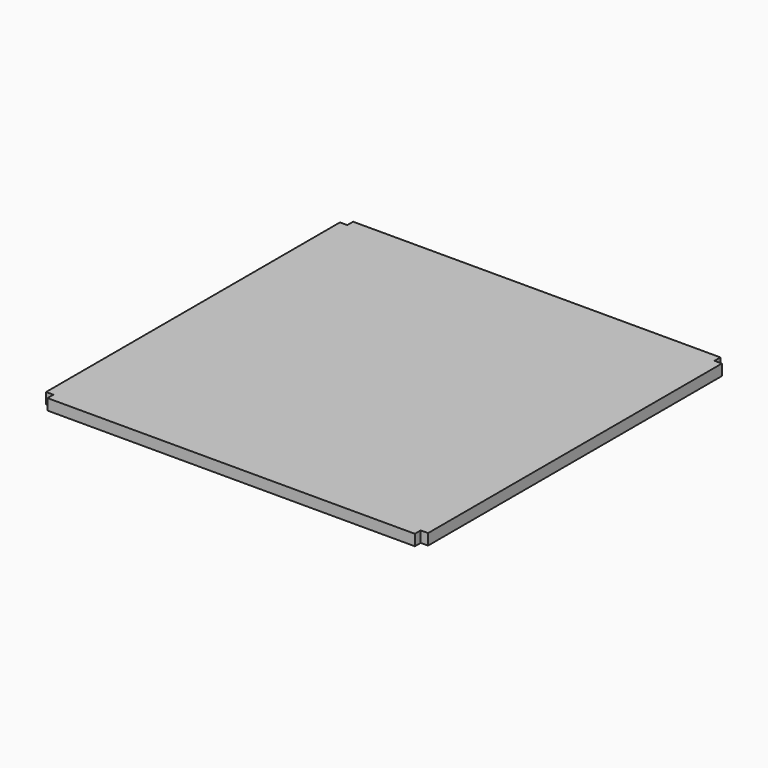
from build123d import *

# Parameters (mm, degrees)
F1_DEPTH = 1.5


with BuildPart() as f1:
    # F0 (on Top) → F1 (new body, symmetric)
    with BuildSketch(Plane.XY):
        Polygon((50, 52), (-50, 52), (-50, 50), (-52, 50), (-52, -50), (-50, -50), (-50, -52), (50, -52), (50, -50), (52, -50), (52, 50), (50, 50), align=None)
    extrude(amount=F1_DEPTH, both=True)


solid = f1.part
